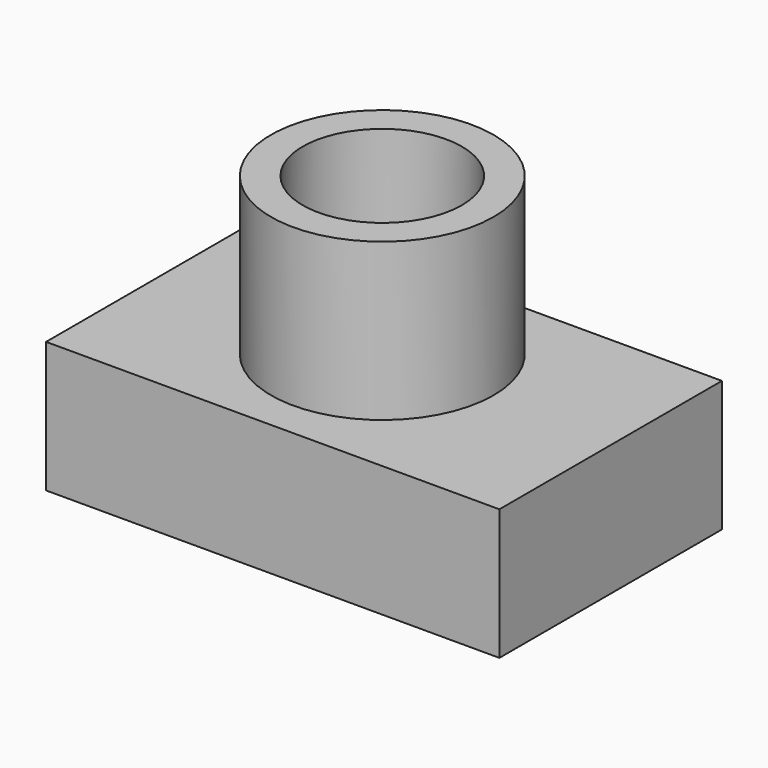
from build123d import *

# Parameters (mm, degrees)
F0_W     = 88.010997
F0_H     = 54.00675
F0_R     = 15.324376
F1_DEPTH = 25.4
F2_R     = 21.607742
F2_R_2   = 15.443576
F3_DEPTH = 55.88


with BuildPart() as f1:
    # F0 (on Top) → F1 (new body)
    with BuildSketch(Plane.XY):
        with Locations((1.666873, -1.666875)):
            Rectangle(F0_W, F0_H)
        Circle(F0_R, mode=Mode.SUBTRACT)
    extrude(amount=F1_DEPTH)

    # F2 (on Top) → F3 (join)
    with BuildSketch(Plane.XY):
        Circle(F2_R)
        Circle(F2_R_2, mode=Mode.SUBTRACT)
    extrude(amount=F3_DEPTH)


solid = f1.part
